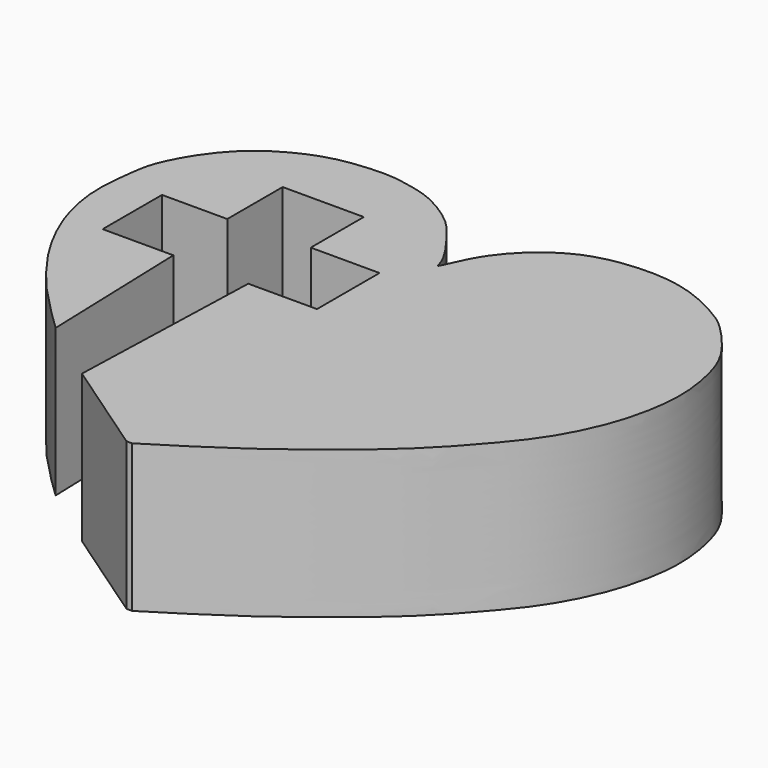
from build123d import *

# Parameters (mm, degrees)
F1_DEPTH = 8


with BuildPart() as f1:
    # F0 (on Top) → F1 (new body)
    with BuildSketch(Plane.XY):
        with BuildLine():
            Line((13.8019938022, 35.7955470681), (18.2002205402, 35.7955470681))
            Line((18.2002205402, 35.7955470681), (18.2002205402, 32.2018750012))
            Line((18.2002205402, 32.2018750012), (21.927986294, 32.2018750012))
            Line((21.927986294, 32.2018750012), (21.927986294, 27.9645584524))
            Line((21.927986294, 27.9645584524), (18.2002205402, 27.9645584524))
            Line((18.2002205402, 27.9645584524), (17.851581797, 17.1298999339))
            Line((17.851581797, 17.1298999339), (23.1983866543, 13.4638668969))
            Line((23.1983866543, 13.4638668969), (23.5006567091, 13.4638668969))
            add(Edge.make_bspline(
                [(14.3651813269, 19.7044722736), (14.1339918582, 19.9178320984), (13.6579926613, 20.3571215948), (12.9144558598, 21.15336231), (11.6500744293, 22.3856985845), (10.1287446375, 24.3815572256), (9.2839032639, 25.7483934407), (8.2743135396, 27.771991225), (7.6531697139, 30.4771906062), (7.982993872, 32.8449578862), (8.1294909733, 33.9440142838), (8.9701810908, 35.6905237658), (10.420330481, 37.5195264475), (12.4331600153, 38.7318376799), (14.2788336992, 39.3557000068), (16.6269072848, 39.5054475227), (17.6667755607, 39.2933129774), (19.1564992981, 39.0245013807), (21.0628317838, 37.8267454077), (21.9918690959, 36.7162501609), (23.38720547, 34.7949838541), (23.4118166674, 34.0505700566), (23.8080227955, 35.0605969545), (24.6515258841, 36.7132004412), (26.4782070571, 38.3782445397), (28.3023328555, 39.209009375), (30.7193309301, 39.5158374678), (33.151660545, 39.2332430082), (35.3050906427, 38.1025791842), (36.2076182931, 37.4651181287), (37.8454098636, 35.6355261439), (38.5476919311, 34.0901827058), (39.0234972181, 31.5816410409), (38.6772518117, 29.1215941303), (38.067419857, 27.130620923), (36.9764763932, 24.9767527022), (35.6210193331, 23.2510834669), (33.6576854773, 21.0197400006), (31.4222464063, 19.014394257), (27.6140481778, 16.028674738), (24.8782741591, 14.3228476345), (23.5006567091, 13.4638668969)],
                knots=[0, 0, 0, 0, 0.0174604143, 0.0359494887, 0.0600112672, 0.0884431174, 0.1113345576, 0.1379701632, 0.1683103033, 0.1956127301, 0.2143677169, 0.2387906498, 0.266493383, 0.2936554565, 0.319149666, 0.3462112854, 0.3646605274, 0.3864770584, 0.412896853, 0.4357169873, 0.463383021, 0.4743917281, 0.4893184871, 0.5147258056, 0.5427676922, 0.5680922302, 0.5957568953, 0.6242696856, 0.6515482811, 0.6708489148, 0.6982332465, 0.7220893026, 0.7503763811, 0.7786887544, 0.8046499394, 0.8321740992, 0.8589589936, 0.8894618688, 0.9208015712, 0.9601190973, 1, 1, 1, 1], degree=3))
            Line((14.3651813269, 19.7044722736), (14.096996747, 28.0181951821))
            Line((14.096996747, 28.0181951821), (10.2619575337, 28.0181951821))
            Line((10.2619575337, 28.0181951821), (10.2619575337, 32.040964812))
            Line((10.2619575337, 32.040964812), (13.8019938022, 32.040964812))
            Line((13.8019938022, 32.040964812), (13.8019938022, 35.7955470681))
        make_face()
    extrude(amount=F1_DEPTH)


solid = f1.part
